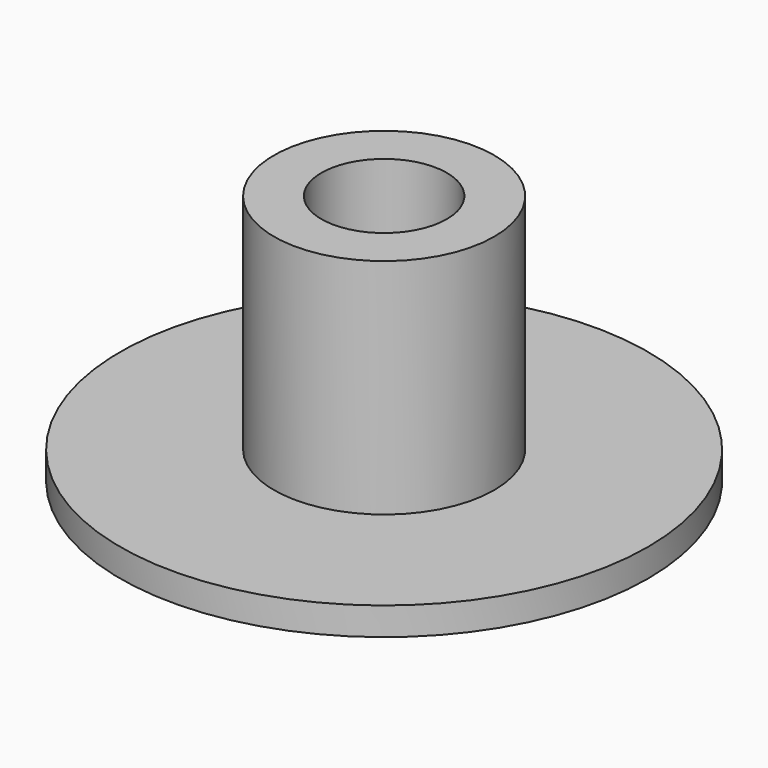
from build123d import *

# Parameters (mm, degrees)
F0_R     = 9.46522
F3_DEPTH = 1
F1_R     = 3.950475
F4_DEPTH = 9
F2_R     = 2.248498
F6_DEPTH = 9
F5_R     = 2.248498
F7_DEPTH = 1


with BuildPart() as f3:
    # F0 (on Top) → F3 (new body)
    with BuildSketch(Plane.XY):
        Circle(F0_R)
    extrude(amount=F3_DEPTH)

    # F1 (on Top) → F4 (join)
    with BuildSketch(Plane.XY):
        Circle(F1_R)
    extrude(amount=F4_DEPTH)

    # F2 (on Top) → F6 (cut)
    with BuildSketch(Plane.XY):
        Circle(F2_R)
    extrude(amount=F6_DEPTH, mode=Mode.SUBTRACT)

    # F5 (on Top) → F7 (join)
    with BuildSketch(Plane.XY):
        Circle(F5_R)
    extrude(amount=F7_DEPTH)


solid = f3.part
